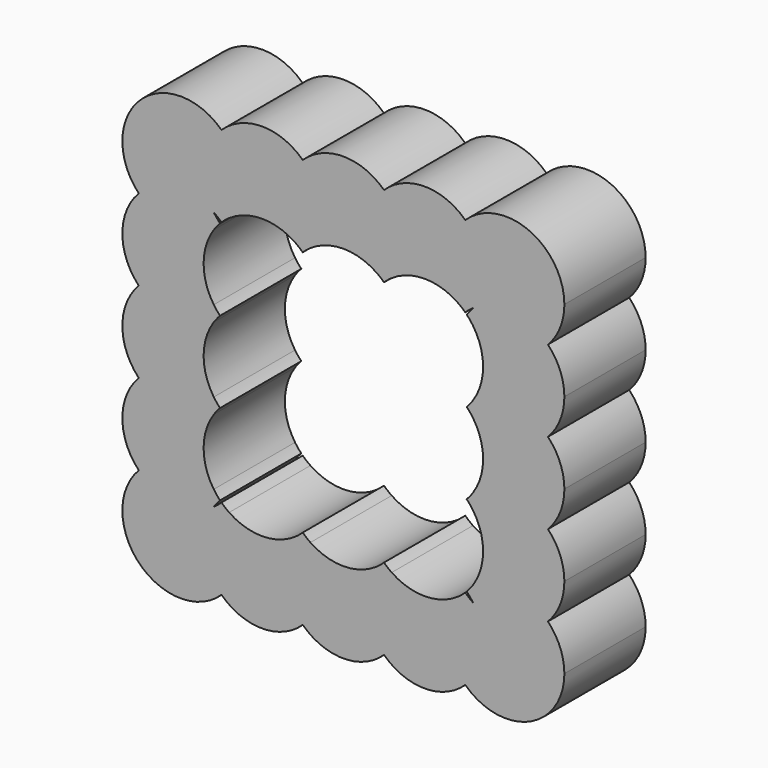
from build123d import *

# Parameters (mm, degrees)
F1_DEPTH = 25


with BuildPart() as f1:
    # F0 (on Front) → F1 (new body)
    with BuildSketch(Plane.XZ):
        with BuildLine():
            ThreePointArc((-85.7609340549, -43.3237808544), (-82.5113908499, -38.594520506), (-81.3676158684, -32.9716019332))
            ThreePointArc((-81.3676158684, -32.9716019332), (-82.0068675294, -28.7297553509), (-83.8678402358, -24.8646957523))
            ThreePointArc((-83.8678402358, -24.8646957523), (-84.8471113337, -24.1344416649), (-85.7609340549, -23.3237808544))
            ThreePointArc((-85.7609340549, -23.3237808544), (-86.674756776, -24.1344416649), (-87.6540278739, -24.8646957523))
            ThreePointArc((-87.6540278739, -24.8646957523), (-90.0791512953, -34.4400240359), (-85.7609340549, -43.3237808544))
        make_face()
        with BuildLine():
            ThreePointArc((-83.8678402358, -24.8646957523), (-82.0068675294, -28.7297553509), (-81.3676158684, -32.9716019332))
            ThreePointArc((-81.3676158684, -32.9716019332), (-82.5113908499, -38.594520506), (-85.7609340549, -43.3237808544))
            ThreePointArc((-85.7609340549, -43.3237808544), (-75.7609340549, -47.3649201197), (-65.7609340549, -43.3237808544))
            ThreePointArc((-65.7609340549, -43.3237808544), (-70.0791512953, -34.4400240359), (-67.6540278739, -24.8646957523))
            ThreePointArc((-67.6540278739, -24.8646957523), (-75.7609340549, -27.3649201197), (-83.8678402358, -24.8646957523))
        make_face()
        with BuildLine():
            ThreePointArc((-106.113112976, -22.9716019332), (-105.9385469482, -43.1492148266), (-85.7609340549, -43.3237808544))
            ThreePointArc((-85.7609340549, -43.3237808544), (-90.0791512953, -34.4400240359), (-87.6540278739, -24.8646957523))
            ThreePointArc((-87.6540278739, -24.8646957523), (-97.2293561575, -27.2898191737), (-106.113112976, -22.9716019332))
        make_face()
        with BuildLine():
            ThreePointArc((-65.7609340549, -23.3237808544), (-66.674756776, -24.1344416649), (-67.6540278739, -24.8646957523))
            ThreePointArc((-67.6540278739, -24.8646957523), (-70.0791512953, -34.4400240359), (-65.7609340549, -43.3237808544))
            ThreePointArc((-65.7609340549, -43.3237808544), (-62.5113908499, -38.594520506), (-61.3676158684, -32.9716019332))
            ThreePointArc((-61.3676158684, -32.9716019332), (-62.0068675294, -28.7297553509), (-63.8678402358, -24.8646957523))
            ThreePointArc((-63.8678402358, -24.8646957523), (-64.8471113337, -24.1344416649), (-65.7609340549, -23.3237808544))
        make_face()
        with BuildLine():
            ThreePointArc((-106.113112976, -2.9716019332), (-110.1542522413, -12.9716019332), (-106.113112976, -22.9716019332))
            ThreePointArc((-106.113112976, -22.9716019332), (-97.2293561575, -18.6533846928), (-87.6540278739, -21.0785081142))
            ThreePointArc((-87.6540278739, -21.0785081142), (-90.1542522413, -12.9716019332), (-87.6540278739, -4.8646957523))
            ThreePointArc((-87.6540278739, -4.8646957523), (-97.2293561575, -7.2898191737), (-106.113112976, -2.9716019332))
        make_face()
        with BuildLine():
            ThreePointArc((-87.6540278739, -21.0785081142), (-97.2293561575, -18.6533846928), (-106.113112976, -22.9716019332))
            ThreePointArc((-106.113112976, -22.9716019332), (-97.2293561575, -27.2898191737), (-87.6540278739, -24.8646957523))
            ThreePointArc((-87.6540278739, -24.8646957523), (-86.9237737865, -23.8854246544), (-86.113112976, -22.9716019332))
            ThreePointArc((-86.113112976, -22.9716019332), (-86.9237737865, -22.057779212), (-87.6540278739, -21.0785081142))
        make_face()
        with BuildLine():
            ThreePointArc((-61.3676158684, -32.9716019332), (-62.5113908499, -38.594520506), (-65.7609340549, -43.3237808544))
            ThreePointArc((-65.7609340549, -43.3237808544), (-55.7609340549, -47.3649201197), (-45.7609340549, -43.3237808544))
            ThreePointArc((-45.7609340549, -43.3237808544), (-50.0791512953, -34.4400240359), (-47.6540278739, -24.8646957523))
            ThreePointArc((-47.6540278739, -24.8646957523), (-55.7609340549, -27.3649201197), (-63.8678402358, -24.8646957523))
            ThreePointArc((-63.8678402358, -24.8646957523), (-62.0068675294, -28.7297553509), (-61.3676158684, -32.9716019332))
        make_face()
        with BuildLine():
            ThreePointArc((-106.113112976, 17.0283980668), (-110.1542522413, 7.0283980668), (-106.113112976, -2.9716019332))
            ThreePointArc((-106.113112976, -2.9716019332), (-97.2293561575, 1.3466153072), (-87.6540278739, -1.0785081142))
            ThreePointArc((-87.6540278739, -1.0785081142), (-90.1542522413, 7.0283980668), (-87.6540278739, 15.1353042477))
            ThreePointArc((-87.6540278739, 15.1353042477), (-97.2293561575, 12.7101808263), (-106.113112976, 17.0283980668))
        make_face()
        with BuildLine():
            ThreePointArc((-87.6540278739, -1.0785081142), (-97.2293561575, 1.3466153072), (-106.113112976, -2.9716019332))
            ThreePointArc((-106.113112976, -2.9716019332), (-97.2293561575, -7.2898191737), (-87.6540278739, -4.8646957523))
            ThreePointArc((-87.6540278739, -4.8646957523), (-86.9237737865, -3.8854246544), (-86.113112976, -2.9716019332))
            ThreePointArc((-86.113112976, -2.9716019332), (-86.9237737865, -2.057779212), (-87.6540278739, -1.0785081142))
        make_face()
        with BuildLine():
            ThreePointArc((-47.6540278739, -24.8646957523), (-50.0791512953, -34.4400240359), (-45.7609340549, -43.3237808544))
            ThreePointArc((-45.7609340549, -43.3237808544), (-42.5113908499, -38.594520506), (-41.3676158684, -32.9716019332))
            ThreePointArc((-41.3676158684, -32.9716019332), (-42.0068675294, -28.7297553509), (-43.8678402358, -24.8646957523))
            ThreePointArc((-43.8678402358, -24.8646957523), (-44.8471113337, -24.1344416649), (-45.7609340549, -23.3237808544))
            ThreePointArc((-45.7609340549, -23.3237808544), (-46.674756776, -24.1344416649), (-47.6540278739, -24.8646957523))
        make_face()
        with BuildLine():
            ThreePointArc((-41.3676158684, -32.9716019332), (-42.5113908499, -38.594520506), (-45.7609340549, -43.3237808544))
            ThreePointArc((-45.7609340549, -43.3237808544), (-35.7609340549, -47.3649201197), (-25.7609340549, -43.3237808544))
            ThreePointArc((-25.7609340549, -43.3237808544), (-30.0791512953, -34.4400240359), (-27.6540278739, -24.8646957523))
            ThreePointArc((-27.6540278739, -24.8646957523), (-35.7609340549, -27.3649201197), (-43.8678402358, -24.8646957523))
            ThreePointArc((-43.8678402358, -24.8646957523), (-42.0068675294, -28.7297553509), (-41.3676158684, -32.9716019332))
        make_face()
        with BuildLine():
            ThreePointArc((-106.113112976, 37.0283980668), (-110.1542522413, 27.0283980668), (-106.113112976, 17.0283980668))
            ThreePointArc((-106.113112976, 17.0283980668), (-97.2293561575, 21.3466153072), (-87.6540278739, 18.9214918858))
            ThreePointArc((-87.6540278739, 18.9214918858), (-90.1542522413, 27.0283980668), (-87.6540278739, 35.1353042477))
            ThreePointArc((-87.6540278739, 35.1353042477), (-97.2293561575, 32.7101808263), (-106.113112976, 37.0283980668))
        make_face()
        with BuildLine():
            ThreePointArc((-87.6540278739, 18.9214918858), (-97.2293561575, 21.3466153072), (-106.113112976, 17.0283980668))
            ThreePointArc((-106.113112976, 17.0283980668), (-97.2293561575, 12.7101808263), (-87.6540278739, 15.1353042477))
            ThreePointArc((-87.6540278739, 15.1353042477), (-86.9237737865, 16.1145753456), (-86.113112976, 17.0283980668))
            ThreePointArc((-86.113112976, 17.0283980668), (-86.9237737865, 17.942220788), (-87.6540278739, 18.9214918858))
        make_face()
        with BuildLine():
            ThreePointArc((-27.6540278739, -24.8646957523), (-30.0791512953, -34.4400240359), (-25.7609340549, -43.3237808544))
            ThreePointArc((-25.7609340549, -43.3237808544), (-22.5113908499, -38.594520506), (-21.3676158684, -32.9716019332))
            ThreePointArc((-21.3676158684, -32.9716019332), (-22.0068675294, -28.7297553509), (-23.8678402358, -24.8646957523))
            ThreePointArc((-23.8678402358, -24.8646957523), (-24.8471113337, -24.1344416649), (-25.7609340549, -23.3237808544))
            ThreePointArc((-25.7609340549, -23.3237808544), (-26.674756776, -24.1344416649), (-27.6540278739, -24.8646957523))
        make_face()
        with BuildLine():
            ThreePointArc((-21.3676158684, -32.9716019332), (-22.5113908499, -38.594520506), (-25.7609340549, -43.3237808544))
            ThreePointArc((-25.7609340549, -43.3237808544), (-10.1380154821, -46.2211451382), (-1.3676158684, -32.9716019332))
            ThreePointArc((-1.3676158684, -32.9716019332), (-2.4160883542, -27.5787639382), (-5.4087551337, -22.9716019332))
            ThreePointArc((-5.4087551337, -22.9716019332), (-14.2925119522, -27.2898191737), (-23.8678402358, -24.8646957523))
            ThreePointArc((-23.8678402358, -24.8646957523), (-22.0068675294, -28.7297553509), (-21.3676158684, -32.9716019332))
        make_face()
        with BuildLine():
            ThreePointArc((-85.7609340549, 57.3805769879), (-105.9385469482, 57.2060109602), (-106.113112976, 37.0283980668))
            ThreePointArc((-106.113112976, 37.0283980668), (-97.2293561575, 41.3466153072), (-87.6540278739, 38.9214918858))
            ThreePointArc((-87.6540278739, 38.9214918858), (-90.0791512953, 48.4968201694), (-85.7609340549, 57.3805769879))
        make_face()
        with BuildLine():
            ThreePointArc((-87.6540278739, 38.9214918858), (-97.2293561575, 41.3466153072), (-106.113112976, 37.0283980668))
            ThreePointArc((-106.113112976, 37.0283980668), (-97.2293561575, 32.7101808263), (-87.6540278739, 35.1353042477))
            ThreePointArc((-87.6540278739, 35.1353042477), (-86.9237737865, 36.1145753456), (-86.113112976, 37.0283980668))
            ThreePointArc((-86.113112976, 37.0283980668), (-86.9237737865, 37.942220788), (-87.6540278739, 38.9214918858))
        make_face()
        with BuildLine():
            ThreePointArc((-85.7609340549, 57.3805769879), (-90.0791512953, 48.4968201694), (-87.6540278739, 38.9214918858))
            ThreePointArc((-87.6540278739, 38.9214918858), (-86.674756776, 38.1912377984), (-85.7609340549, 37.3805769879))
            ThreePointArc((-85.7609340549, 37.3805769879), (-84.8471113337, 38.1912377984), (-83.8678402358, 38.9214918858))
            ThreePointArc((-83.8678402358, 38.9214918858), (-82.0068675294, 42.7865514844), (-81.3676158684, 47.0283980668))
            ThreePointArc((-81.3676158684, 47.0283980668), (-82.5113908499, 52.6513166395), (-85.7609340549, 57.3805769879))
        make_face()
        with BuildLine():
            ThreePointArc((-65.7609340549, 57.3805769879), (-75.7609340549, 61.4217162532), (-85.7609340549, 57.3805769879))
            ThreePointArc((-85.7609340549, 57.3805769879), (-82.5113908499, 52.6513166395), (-81.3676158684, 47.0283980668))
            ThreePointArc((-81.3676158684, 47.0283980668), (-82.0068675294, 42.7865514844), (-83.8678402358, 38.9214918858))
            ThreePointArc((-83.8678402358, 38.9214918858), (-75.7609340549, 41.4217162532), (-67.6540278739, 38.9214918858))
            ThreePointArc((-67.6540278739, 38.9214918858), (-70.0791512953, 48.4968201694), (-65.7609340549, 57.3805769879))
        make_face()
        with BuildLine():
            ThreePointArc((-25.4087551337, -22.9716019332), (-24.5980943232, -23.8854246544), (-23.8678402358, -24.8646957523))
            ThreePointArc((-23.8678402358, -24.8646957523), (-14.2925119522, -27.2898191737), (-5.4087551337, -22.9716019332))
            ThreePointArc((-5.4087551337, -22.9716019332), (-14.2925119522, -18.6533846928), (-23.8678402358, -21.0785081142))
            ThreePointArc((-23.8678402358, -21.0785081142), (-24.5980943232, -22.057779212), (-25.4087551337, -22.9716019332))
        make_face()
        with BuildLine():
            ThreePointArc((-23.8678402358, -21.0785081142), (-14.2925119522, -18.6533846928), (-5.4087551337, -22.9716019332))
            ThreePointArc((-5.4087551337, -22.9716019332), (-2.4160883542, -18.3644399282), (-1.3676158684, -12.9716019332))
            ThreePointArc((-1.3676158684, -12.9716019332), (-2.4160883542, -7.5787639382), (-5.4087551337, -2.9716019332))
            ThreePointArc((-5.4087551337, -2.9716019332), (-14.2925119522, -7.2898191737), (-23.8678402358, -4.8646957523))
            ThreePointArc((-23.8678402358, -4.8646957523), (-22.0068675294, -8.7297553509), (-21.3676158684, -12.9716019332))
            ThreePointArc((-21.3676158684, -12.9716019332), (-22.0068675294, -17.2134485156), (-23.8678402358, -21.0785081142))
        make_face()
        with BuildLine():
            ThreePointArc((-45.7609340549, 57.3805769879), (-55.7609340549, 61.4217162532), (-65.7609340549, 57.3805769879))
            ThreePointArc((-65.7609340549, 57.3805769879), (-62.5113908499, 52.6513166395), (-61.3676158684, 47.0283980668))
            ThreePointArc((-61.3676158684, 47.0283980668), (-62.0068675294, 42.7865514844), (-63.8678402358, 38.9214918858))
            ThreePointArc((-63.8678402358, 38.9214918858), (-55.7609340549, 41.4217162532), (-47.6540278739, 38.9214918858))
            ThreePointArc((-47.6540278739, 38.9214918858), (-50.0791512953, 48.4968201694), (-45.7609340549, 57.3805769879))
        make_face()
        with BuildLine():
            ThreePointArc((-61.3676158684, 47.0283980668), (-62.5113908499, 52.6513166395), (-65.7609340549, 57.3805769879))
            ThreePointArc((-65.7609340549, 57.3805769879), (-70.0791512953, 48.4968201694), (-67.6540278739, 38.9214918858))
            ThreePointArc((-67.6540278739, 38.9214918858), (-66.674756776, 38.1912377984), (-65.7609340549, 37.3805769879))
            ThreePointArc((-65.7609340549, 37.3805769879), (-64.8471113337, 38.1912377984), (-63.8678402358, 38.9214918858))
            ThreePointArc((-63.8678402358, 38.9214918858), (-62.0068675294, 42.7865514844), (-61.3676158684, 47.0283980668))
        make_face()
        with BuildLine():
            ThreePointArc((-25.7609340549, 57.3805769879), (-35.7609340549, 61.4217162532), (-45.7609340549, 57.3805769879))
            ThreePointArc((-45.7609340549, 57.3805769879), (-42.5113908499, 52.6513166395), (-41.3676158684, 47.0283980668))
            ThreePointArc((-41.3676158684, 47.0283980668), (-42.0068675294, 42.7865514844), (-43.8678402358, 38.9214918858))
            ThreePointArc((-43.8678402358, 38.9214918858), (-35.7609340549, 41.4217162532), (-27.6540278739, 38.9214918858))
            ThreePointArc((-27.6540278739, 38.9214918858), (-30.0791512953, 48.4968201694), (-25.7609340549, 57.3805769879))
        make_face()
        with BuildLine():
            ThreePointArc((-41.3676158684, 47.0283980668), (-42.5113908499, 52.6513166395), (-45.7609340549, 57.3805769879))
            ThreePointArc((-45.7609340549, 57.3805769879), (-50.0791512953, 48.4968201694), (-47.6540278739, 38.9214918858))
            ThreePointArc((-47.6540278739, 38.9214918858), (-46.674756776, 38.1912377984), (-45.7609340549, 37.3805769879))
            ThreePointArc((-45.7609340549, 37.3805769879), (-44.8471113337, 38.1912377984), (-43.8678402358, 38.9214918858))
            ThreePointArc((-43.8678402358, 38.9214918858), (-42.0068675294, 42.7865514844), (-41.3676158684, 47.0283980668))
        make_face()
        with BuildLine():
            ThreePointArc((-23.8678402358, -4.8646957523), (-14.2925119522, -7.2898191737), (-5.4087551337, -2.9716019332))
            ThreePointArc((-5.4087551337, -2.9716019332), (-14.2925119522, 1.3466153072), (-23.8678402358, -1.0785081142))
            ThreePointArc((-23.8678402358, -1.0785081142), (-24.5980943232, -2.057779212), (-25.4087551337, -2.9716019332))
            ThreePointArc((-25.4087551337, -2.9716019332), (-24.5980943232, -3.8854246544), (-23.8678402358, -4.8646957523))
        make_face()
        with BuildLine():
            ThreePointArc((-23.8678402358, -1.0785081142), (-14.2925119522, 1.3466153072), (-5.4087551337, -2.9716019332))
            ThreePointArc((-5.4087551337, -2.9716019332), (-2.4160883542, 1.6355600718), (-1.3676158684, 7.0283980668))
            ThreePointArc((-1.3676158684, 7.0283980668), (-2.4160883542, 12.4212360618), (-5.4087551337, 17.0283980668))
            ThreePointArc((-5.4087551337, 17.0283980668), (-14.2925119522, 12.7101808263), (-23.8678402358, 15.1353042477))
            ThreePointArc((-23.8678402358, 15.1353042477), (-22.0068675294, 11.2702446491), (-21.3676158684, 7.0283980668))
            ThreePointArc((-21.3676158684, 7.0283980668), (-22.0068675294, 2.7865514844), (-23.8678402358, -1.0785081142))
        make_face()
        with BuildLine():
            ThreePointArc((-1.3676158684, 47.0283980668), (-10.1380154821, 60.2779412717), (-25.7609340549, 57.3805769879))
            ThreePointArc((-25.7609340549, 57.3805769879), (-22.5113908499, 52.6513166395), (-21.3676158684, 47.0283980668))
            ThreePointArc((-21.3676158684, 47.0283980668), (-22.0068675294, 42.7865514844), (-23.8678402358, 38.9214918858))
            ThreePointArc((-23.8678402358, 38.9214918858), (-14.2925119522, 41.3466153072), (-5.4087551337, 37.0283980668))
            ThreePointArc((-5.4087551337, 37.0283980668), (-2.4160883542, 41.6355600718), (-1.3676158684, 47.0283980668))
        make_face()
        with BuildLine():
            ThreePointArc((-21.3676158684, 47.0283980668), (-22.5113908499, 52.6513166395), (-25.7609340549, 57.3805769879))
            ThreePointArc((-25.7609340549, 57.3805769879), (-30.0791512953, 48.4968201694), (-27.6540278739, 38.9214918858))
            ThreePointArc((-27.6540278739, 38.9214918858), (-26.674756776, 38.1912377984), (-25.7609340549, 37.3805769879))
            ThreePointArc((-25.7609340549, 37.3805769879), (-24.8471113337, 38.1912377984), (-23.8678402358, 38.9214918858))
            ThreePointArc((-23.8678402358, 38.9214918858), (-22.0068675294, 42.7865514844), (-21.3676158684, 47.0283980668))
        make_face()
        with BuildLine():
            ThreePointArc((-23.8678402358, 15.1353042477), (-14.2925119522, 12.7101808263), (-5.4087551337, 17.0283980668))
            ThreePointArc((-5.4087551337, 17.0283980668), (-14.2925119522, 21.3466153072), (-23.8678402358, 18.9214918858))
            ThreePointArc((-23.8678402358, 18.9214918858), (-24.5980943232, 17.942220788), (-25.4087551337, 17.0283980668))
            ThreePointArc((-25.4087551337, 17.0283980668), (-24.5980943232, 16.1145753456), (-23.8678402358, 15.1353042477))
        make_face()
        with BuildLine():
            ThreePointArc((-23.8678402358, 18.9214918858), (-14.2925119522, 21.3466153072), (-5.4087551337, 17.0283980668))
            ThreePointArc((-5.4087551337, 17.0283980668), (-2.4160883542, 21.6355600718), (-1.3676158684, 27.0283980668))
            ThreePointArc((-1.3676158684, 27.0283980668), (-2.4160883542, 32.4212360618), (-5.4087551337, 37.0283980668))
            ThreePointArc((-5.4087551337, 37.0283980668), (-14.2925119522, 32.7101808263), (-23.8678402358, 35.1353042477))
            ThreePointArc((-23.8678402358, 35.1353042477), (-22.0068675294, 31.2702446491), (-21.3676158684, 27.0283980668))
            ThreePointArc((-21.3676158684, 27.0283980668), (-22.0068675294, 22.7865514844), (-23.8678402358, 18.9214918858))
        make_face()
        with BuildLine():
            ThreePointArc((-5.4087551337, 37.0283980668), (-14.2925119522, 41.3466153072), (-23.8678402358, 38.9214918858))
            ThreePointArc((-23.8678402358, 38.9214918858), (-24.5980943232, 37.942220788), (-25.4087551337, 37.0283980668))
            ThreePointArc((-25.4087551337, 37.0283980668), (-24.5980943232, 36.1145753456), (-23.8678402358, 35.1353042477))
            ThreePointArc((-23.8678402358, 35.1353042477), (-14.2925119522, 32.7101808263), (-5.4087551337, 37.0283980668))
        make_face()
    extrude(amount=F1_DEPTH)


solid = f1.part
